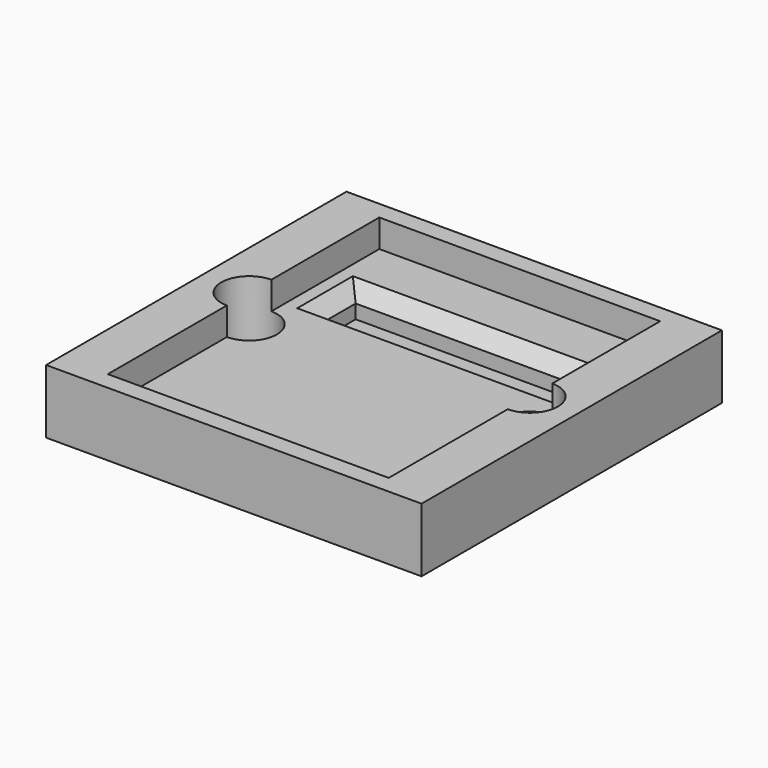
from build123d import *

# Parameters (mm, degrees)
SKETCH_W        = 27
SKETCH_H        = 27
PAD_DEPTH       = 4.6
SKETCH001_W     = 20.2
SKETCH001_H     = 24.4
POCKET_DEPTH    = 2
SKETCH002_W     = 16.4
SKETCH002_H     = 3
POCKET001_DEPTH = 2
CHAMFER_SIZE    = 1
SKETCH003_R     = 2
POCKET002_DEPTH = 4.601


with BuildPart() as part:
    # Sketch → Pad (new body)
    with BuildSketch(Plane.XY):
        Rectangle(SKETCH_W, SKETCH_H)
    extrude(amount=PAD_DEPTH)

    # Sketch001 (on Face6 of Pad) → Pocket (cut)
    with BuildSketch(Plane.XY.offset(4.6)):
        Rectangle(SKETCH001_W, SKETCH001_H)
    extrude(amount=-POCKET_DEPTH, mode=Mode.SUBTRACT)

    # Sketch002 (on Face11 of Pocket) → Pocket001 (cut)
    with BuildSketch(Plane.XY.offset(2.6)):
        with Locations((0, 6.2)):
            Rectangle(SKETCH002_W, SKETCH002_H)
    extrude(amount=-POCKET001_DEPTH, mode=Mode.SUBTRACT)

    # Chamfer
    chamfer_edges = [part.edges().sort_by_distance(p)[0] for p in [
        (0, 7.7, 2.6),
        (-8.2, 6.2, 2.6),
        (0, 4.7, 2.6),
        (8.2, 6.2, 2.6),
    ]]
    chamfer(chamfer_edges, length=CHAMFER_SIZE)

    # Sketch003 (on Face14 of Chamfer) → Pocket002 (cut, through all)
    with BuildSketch(Plane.XY.offset(4.6)):
        with Locations((-10.1, 0.5)):
            Circle(SKETCH003_R)
        with Locations((10.1, 0.5)):
            Circle(SKETCH003_R)
    extrude(amount=-POCKET002_DEPTH, mode=Mode.SUBTRACT)


solid = part.part
